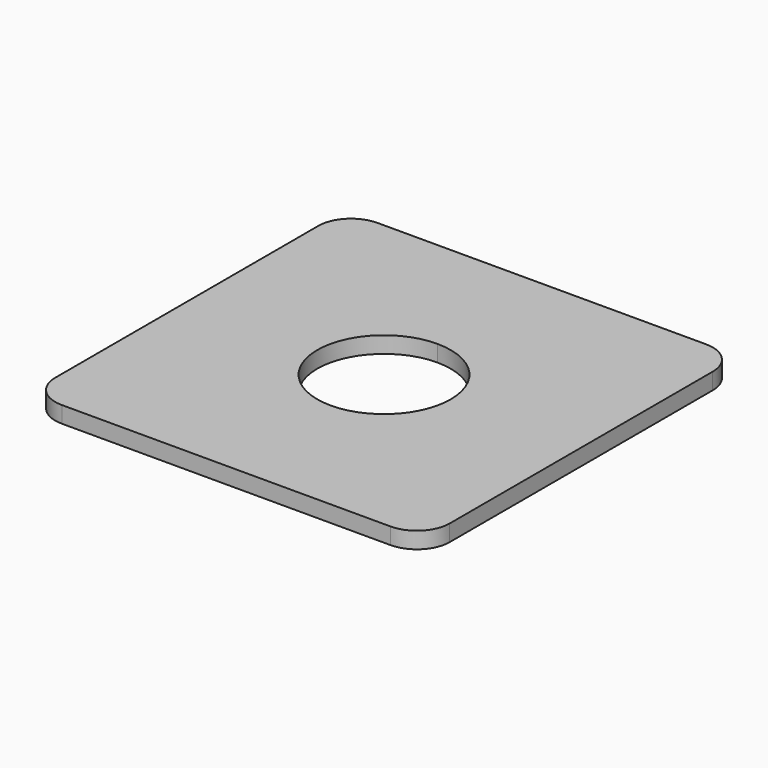
from build123d import *

# Parameters (mm, degrees)
F1_DEPTH = 6.35


with BuildPart() as f1:
    # F0 (on Top) → F1 (new body)
    with BuildSketch(Plane.XY):
        with BuildLine():
            Line((76.2, 0), (12.7, 0))
            ThreePointArc((12.7, 0), (3.719744, -3.719744), (0, -12.7))
            Line((0, -12.7), (0, -139.7))
            ThreePointArc((0, -139.7), (3.719744, -148.680256), (12.7, -152.4))
            Line((12.7, -152.4), (76.2, -152.4))
            Line((76.2, -152.4), (76.2, -101.981))
            ThreePointArc((76.2, -101.981), (50.419, -76.2), (76.2, -50.419))
            Line((76.2, -50.419), (76.2, 0))
        make_face()
        with BuildLine():
            Line((139.7, 0), (76.2, 0))
            Line((76.2, 0), (76.2, -50.419))
            ThreePointArc((76.2, -50.419), (94.42992, -57.97008), (101.981, -76.2))
            ThreePointArc((101.981, -76.2), (94.42992, -94.42992), (76.2, -101.981))
            Line((76.2, -101.981), (76.2, -152.4))
            Line((76.2, -152.4), (139.7, -152.4))
            ThreePointArc((139.7, -152.4), (148.680256, -148.680256), (152.4, -139.7))
            Line((152.4, -139.7), (152.4, -12.7))
            ThreePointArc((152.4, -12.7), (148.680256, -3.719744), (139.7, 0))
        make_face()
    extrude(amount=F1_DEPTH)


solid = f1.part
